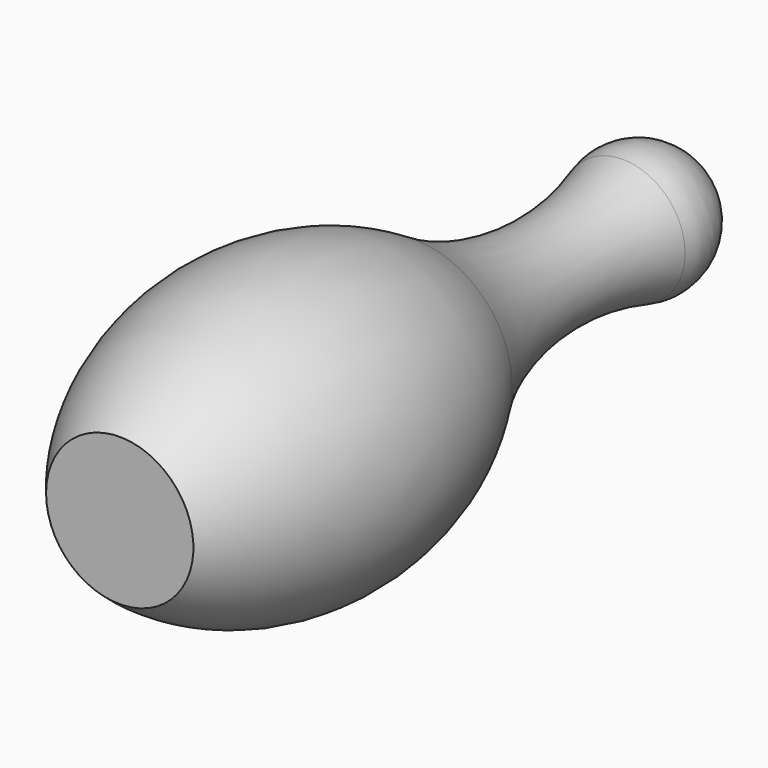
from build123d import *


with BuildPart() as f1:
    # F0 (on Top) → F1 (revolve)
    with BuildSketch(Plane.XY):
        with BuildLine():
            Line((0, 0), (0, 242.19))
            ThreePointArc((0, 242.19), (-17.882178, 233.138637), (-21.175976, 213.368702))
            ThreePointArc((-21.175976, 213.368702), (-17.334864, 167.845488), (-33.189869, 125))
            ThreePointArc((-33.189869, 125), (-49.777335, 61.144911), (-25, 0))
            Line((-25, 0), (0, 0))
        make_face()
    revolve(axis=Axis((0, 121.095, 0), (0, 1, 0)))


solid = f1.part
